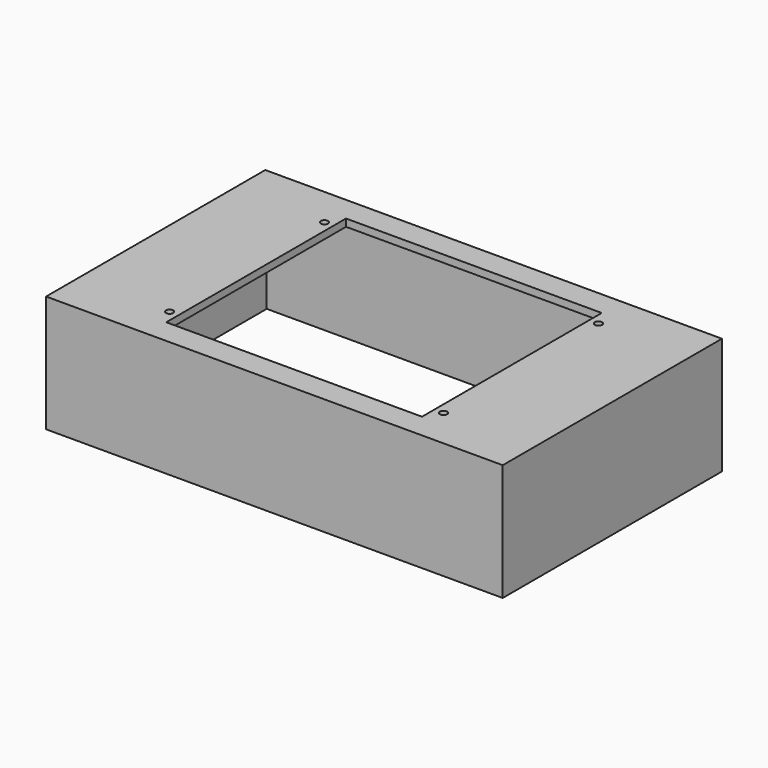
from build123d import *

# Parameters (mm, degrees)
F0_W     = 250
F0_H     = 150
F1_DEPTH = 64
F2_T     = -4
F3_W     = 140
F3_H     = 123
F3_R     = 2
F4_DEPTH = 64.001


with BuildPart() as f1:
    # F0 (on Top) → F1 (new body)
    with BuildSketch(Plane.XY):
        Rectangle(F0_W, F0_H)
    extrude(amount=F1_DEPTH)

    # F2
    f2_openings = [f1.faces().sort_by_distance(p)[0] for p in [
        (0, 0, 0),
    ]]
    offset(amount=F2_T, openings=f2_openings)

    # F3 (on Top) → F4 (cut, through all)
    with BuildSketch(Plane.XY):
        Rectangle(F3_W, F3_H)
        with Locations((-75, -53)):
            Circle(F3_R)
        with Locations((75, -53)):
            Circle(F3_R)
        with Locations((-75, 53)):
            Circle(F3_R)
        with Locations((75, 53)):
            Circle(F3_R)
    extrude(amount=F4_DEPTH, mode=Mode.SUBTRACT)


solid = f1.part
